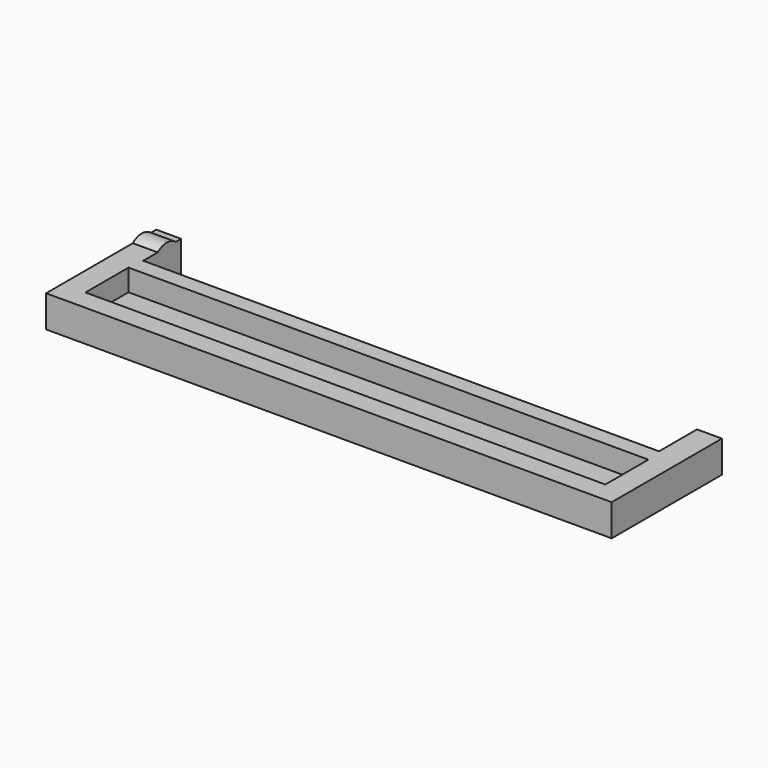
from build123d import *

# Parameters (mm, degrees)
PAD_DEPTH    = 5.5
SKETCH001_W  = 89.8
SKETCH001_H  = 9.3
POCKET_DEPTH = 3.75
SKETCH002_R  = 3.1
PAD001_DEPTH = 4.3


with BuildPart() as part:
    # Sketch → Pad (new body)
    with BuildSketch(Plane.XY):
        Polygon((0, 0), (97.7, 0), (97.7, 23.8), (93.4, 23.8), (93.4, 15.6), (4.3, 15.6), (4.3, 23.8), (0, 23.8), align=None)
    extrude(amount=PAD_DEPTH)

    # Sketch001 (on Face10 of Pad) → Pocket (cut)
    with BuildSketch(Plane.XY.offset(5.5)):
        with Locations((48.9, 8.15)):
            Rectangle(SKETCH001_W, SKETCH001_H)
    extrude(amount=-POCKET_DEPTH, mode=Mode.SUBTRACT)

    # Sketch002 (on Face2 of Pocket) → Pad001 (join)
    with BuildSketch(Plane(origin=(0, 0, 0), x_dir=(0, -1, 0), z_dir=(-1, 0, 0))):
        with Locations((-20.69, 3.1)):
            Circle(SKETCH002_R)
    extrude(amount=-PAD001_DEPTH)


solid = part.part
